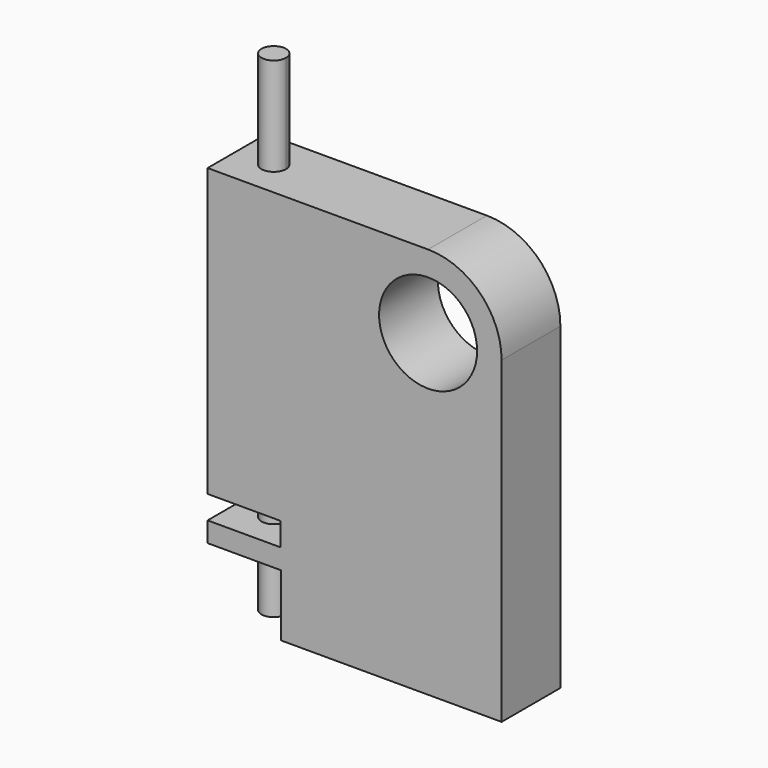
from build123d import *

# Parameters (mm, degrees)
F0_R          = 12.7
F1_DEPTH      = 9.525
F2_W          = 19.05
F2_H          = 16.0092996487
F2_W_2        = 18.8823488869
F2_H_2        = 6.0349201819
F3_DEPTH      = 9.526
F3_DEPTH_BACK = 9.526
F5_DEPTH      = 101.601
F6_DEPTH      = 127
F7_R          = 3.175
F7_R_2        = 2.54
F8_DEPTH      = 1.27


with BuildPart() as f1:
    # F0 (on Front) → F1 (new body, symmetric)
    with BuildSketch(Plane.XZ):
        with BuildLine():
            Line((0, 101.6), (0, 0))
            Line((0, 0), (76.2, 0))
            Line((76.2, 0), (76.2, 82.55))
            ThreePointArc((76.2, 82.55), (70.6203841816, 96.0203841816), (57.15, 101.6))
            Line((57.15, 101.6), (0, 101.6))
        make_face()
        with Locations((57.15, 82.55)):
            Circle(F0_R, mode=Mode.SUBTRACT)
    extrude(amount=F1_DEPTH, both=True)

    # F2 (on Front) → F3 (cut, two sides)
    with BuildSketch(Plane.XZ) as f3_sk:
        with Locations((9.525, 8.0046498244)):
            Rectangle(F2_W, F2_H)
        with Locations((9.4411744435, 24.2234951582)):
            Rectangle(F2_W_2, F2_H_2)
    extrude(amount=-F3_DEPTH, mode=Mode.SUBTRACT)
    extrude(f3_sk.sketch, amount=F3_DEPTH_BACK, mode=Mode.SUBTRACT)

    # F4 (on Top) → F5 (cut, through all)
    with BuildSketch(Plane.XY):
        with BuildLine():
            ThreePointArc((6.35, 0), (9.525, -3.175), (12.7, 0))
            ThreePointArc((12.7, 0), (11.7700640303, 2.2450640303), (9.525, 3.175))
            Line((9.525, 3.175), (9.525, 0))
            Line((9.525, 0), (6.35, 0))
        make_face()
        with BuildLine():
            Line((9.525, 0), (9.525, 3.175))
            ThreePointArc((9.525, 3.175), (7.2799359697, 2.2450640303), (6.35, 0))
            Line((6.35, 0), (9.525, 0))
        make_face()
    extrude(amount=F5_DEPTH, mode=Mode.SUBTRACT)


with BuildPart() as f6:
    # F4 (on Top) → F6 (new body)
    with BuildSketch(Plane.XY):
        with BuildLine():
            ThreePointArc((6.35, 0), (9.525, -3.175), (12.7, 0))
            ThreePointArc((12.7, 0), (11.7700640303, 2.2450640303), (9.525, 3.175))
            Line((9.525, 3.175), (9.525, 0))
            Line((9.525, 0), (6.35, 0))
        make_face()
        with BuildLine():
            Line((9.525, 0), (9.525, 3.175))
            ThreePointArc((9.525, 3.175), (7.2799359697, 2.2450640303), (6.35, 0))
            Line((6.35, 0), (9.525, 0))
        make_face()
    extrude(amount=F6_DEPTH)

    # F7 (on face) → F8 (cut)
    with BuildSketch(Plane(origin=(0, 0, 27.2409552492), x_dir=(1, 0, 0), z_dir=(0, 0, -1))):
        with Locations((9.525, 0)):
            Circle(F7_R)
        with Locations((9.525, 0)):
            Circle(F7_R_2, mode=Mode.SUBTRACT)
    extrude(amount=F8_DEPTH, mode=Mode.SUBTRACT)


solid = Compound([f1.part, f6.part])
